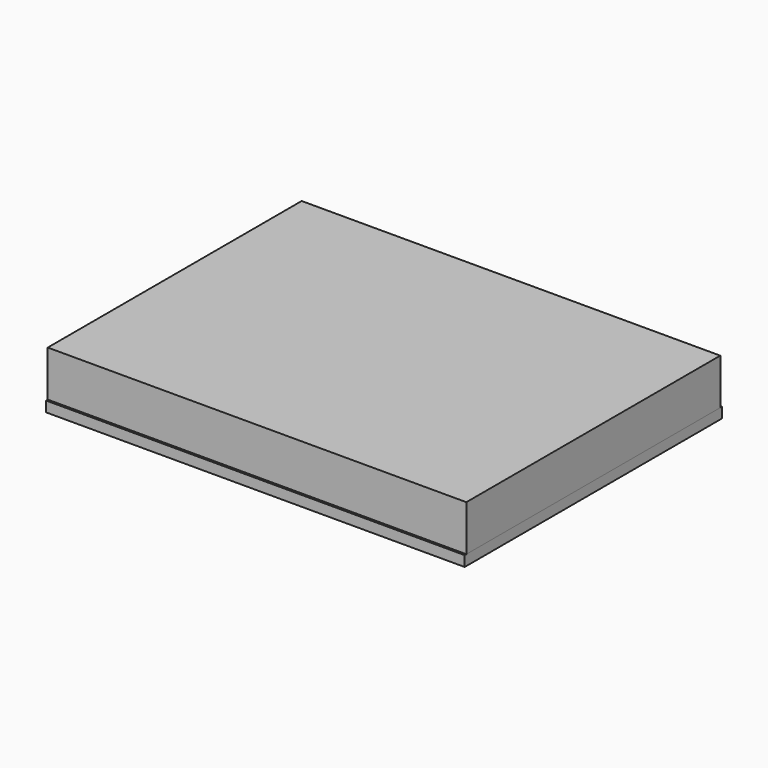
from build123d import *

# Parameters (mm, degrees)
F0_W     = 2000
F0_H     = 1524
F1_DEPTH = 220
F2_W     = 1524
F2_H     = 270
F3_DEPTH = 10
F4_W     = 1524
F4_H     = 270
F5_DEPTH = 10
F7_D     = 12
F8_D     = 12


with BuildPart() as f1:
    # F0 (on Top) → F1 (new body)
    with BuildSketch(Plane.XY):
        with Locations((-1000, 762)):
            Rectangle(F0_W, F0_H)
    extrude(amount=F1_DEPTH)

    # F2 (on face) → F3 (join)
    with BuildSketch(Plane.YZ):
        with Locations((762, 85)):
            Rectangle(F2_W, F2_H)
    extrude(amount=-F3_DEPTH)

    # F4 (on face) → F5 (join)
    with BuildSketch(Plane(origin=(-2000, 0, 0), x_dir=(0, -1, 0), z_dir=(-1, 0, 0))):
        with Locations((-762, 85)):
            Rectangle(F4_W, F4_H)
    extrude(amount=F5_DEPTH)

    # F7 (through all)
    with Locations(Plane.YZ):
        with Locations((30, -25)):
            Hole(F7_D / 2)

    # F8 (through all)
    with Locations(Plane.YZ):
        with Locations((370, -25)):
            Hole(F8_D / 2)


with BuildPart() as f10:
    # F10: sweep along a path in F10_path
    with BuildLine(Plane(origin=(-10, 0, 0), x_dir=(0, -1, 0), z_dir=(0, 0, -1))) as f10_path:
        Line((0, 0), (-1524, 0))
        Line((-1524, 0), (-1524, 1990))
        Line((-1524, 1990), (0, 1990))
        Line((0, 1990), (0, 0))
    # F9 (on Front) → F10 (sweep)
    with BuildSketch(Plane.XZ):
        Polygon((0, -50), (0, 0), (-50, 0), (-50, -3), (-3, -3), (-3, -50), align=None)
    sweep(path=f10_path.line, transition=Transition.RIGHT)


solid = Compound([f1.part, f10.part])
